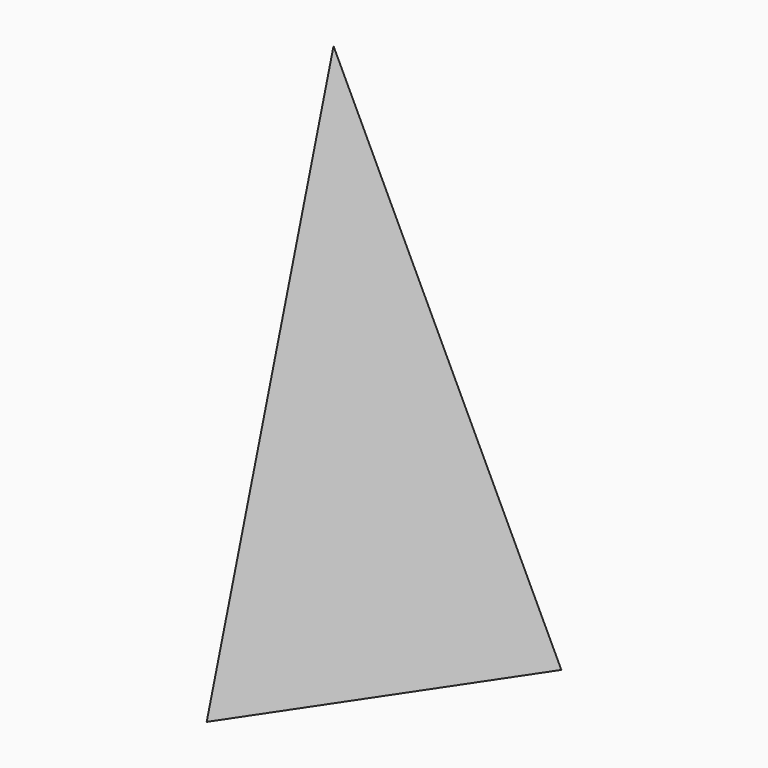
from build123d import *


with BuildPart() as f3:
    # F0 (on Top) → F3 section 0
    with BuildSketch(Plane.XY, mode=Mode.PRIVATE) as f3_s0:
        Polygon((29.147545, 75.63787), (0, 50.570983), (-32.645244, 75.63787), (-75.200655, 39.786398), (0, -75.929344), (77.240989, 39.786398), align=None)
    loft([f3_s0.sketch, Vertex(0, 0, 254)])


solid = f3.part
